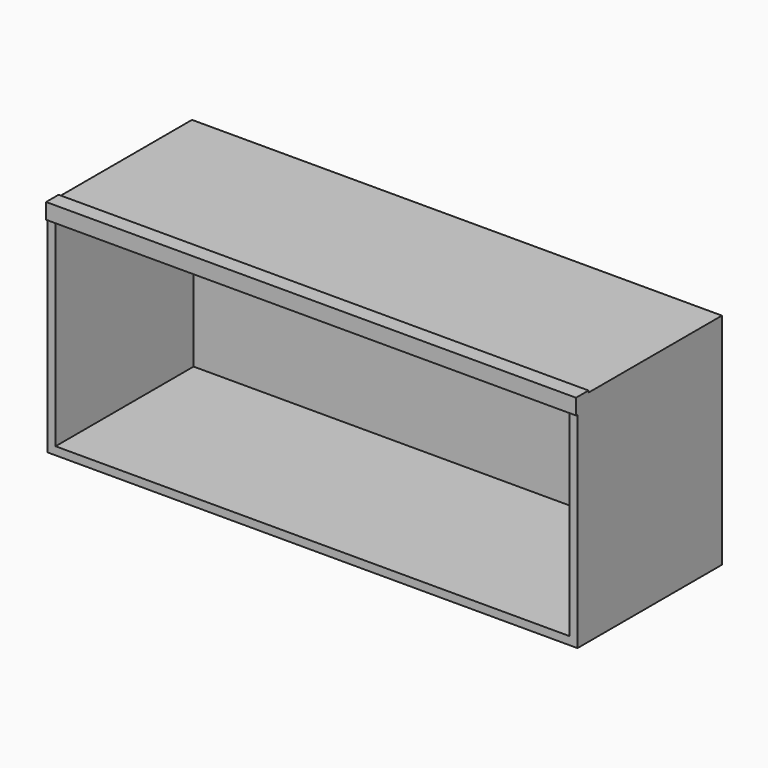
from build123d import *

# Parameters (mm, degrees)
F0_W     = 860
F0_H     = 356
F1_DEPTH = 13
F2_W     = 13
F2_H     = 356
F3_DEPTH = 280
F4_W     = 834
F4_H     = 13
F5_DEPTH = 280
F7_DEPTH = 860


with BuildPart() as f1:
    # F0 (on Front) → F1 (new body)
    with BuildSketch(Plane.XZ):
        Rectangle(F0_W, F0_H)
    extrude(amount=F1_DEPTH)

    # F2 (on face) → F3 (join)
    with BuildSketch(Plane.XZ.offset(13)):
        with Locations((-423.5, 0)):
            Rectangle(F2_W, F2_H)
        with Locations((423.5, 0)):
            Rectangle(F2_W, F2_H)
    extrude(amount=F3_DEPTH)

    # F4 (on face) → F5 (join)
    with BuildSketch(Plane.XZ.offset(13)):
        with Locations((0, 171.5)):
            Rectangle(F4_W, F4_H)
        with Locations((0, -171.5)):
            Rectangle(F4_W, F4_H)
    extrude(amount=F5_DEPTH)

    # F6 (on face) → F7 (join, through all)
    with BuildSketch(Plane.YZ.offset(430)):
        Polygon((-270.6, 178), (-270.6, 181), (-296, 181), (-296, 155.6), (-293, 155.6), (-293, 178), align=None)
    extrude(amount=-F7_DEPTH)


solid = f1.part
